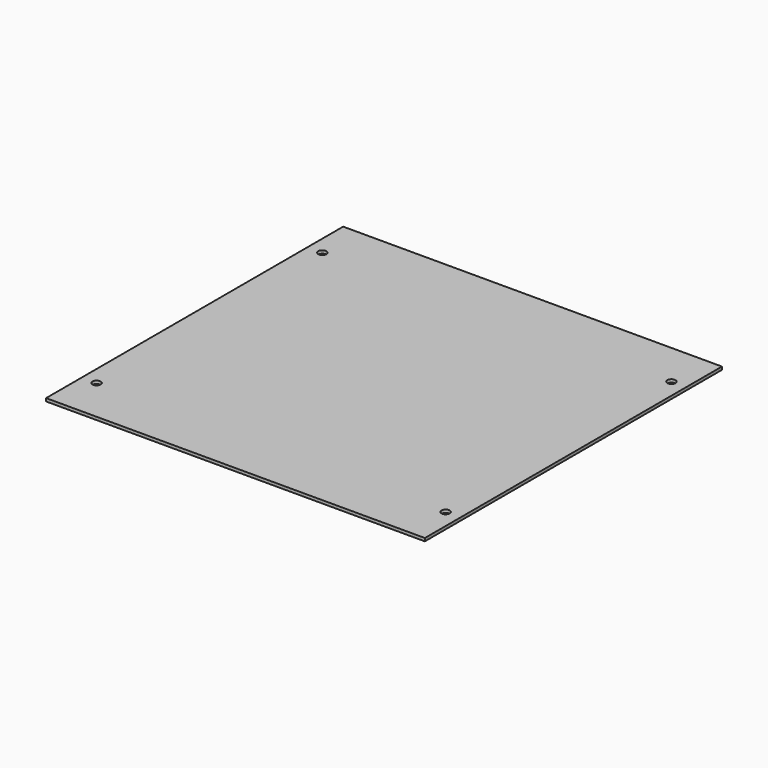
from build123d import *

# Parameters (mm, degrees)
CYLINDER007_R     = 2.75
CYLINDER007_DEPTH = 10
CYLINDER006_R     = 2.75
CYLINDER006_DEPTH = 10
CYLINDER005_R     = 2.75
CYLINDER005_DEPTH = 10
CYLINDER004_R     = 2.75
CYLINDER004_DEPTH = 10
BOX001_W          = 255
BOX001_H          = 250
BOX001_DEPTH      = 2


with BuildPart() as cylinder007:
    # Cylinder007 → Cylinder007 (new body)
    with BuildSketch(Plane(origin=(245, 220, -5), x_dir=(1, 0, 0), z_dir=(0, 0, 1))):
        Circle(CYLINDER007_R)
    extrude(amount=CYLINDER007_DEPTH)


with BuildPart() as cylinder006:
    # Cylinder006 → Cylinder006 (new body)
    with BuildSketch(Plane(origin=(245, 30, -5), x_dir=(1, 0, 0), z_dir=(0, 0, 1))):
        Circle(CYLINDER006_R)
    extrude(amount=CYLINDER006_DEPTH)


with BuildPart() as cylinder005:
    # Cylinder005 → Cylinder005 (new body)
    with BuildSketch(Plane(origin=(10, 220, -5), x_dir=(1, 0, 0), z_dir=(0, 0, 1))):
        Circle(CYLINDER005_R)
    extrude(amount=CYLINDER005_DEPTH)


with BuildPart() as cylinder004:
    # Cylinder004 → Cylinder004 (new body)
    with BuildSketch(Plane(origin=(10, 30, -5), x_dir=(1, 0, 0), z_dir=(0, 0, 1))):
        Circle(CYLINDER004_R)
    extrude(amount=CYLINDER004_DEPTH)


with BuildPart() as side:
    # Box001 → Box001 (new body)
    with BuildSketch(Plane.XY.offset(0)):
        with Locations((127.5, 125)):
            Rectangle(BOX001_W, BOX001_H)
    extrude(amount=BOX001_DEPTH)

    # Cut004: cut Cylinder004
    add(cylinder004.part, mode=Mode.SUBTRACT)

    # Cut005: cut Cylinder005
    add(cylinder005.part, mode=Mode.SUBTRACT)

    # Cut006: cut Cylinder006
    add(cylinder006.part, mode=Mode.SUBTRACT)

    # Cut007: cut Cylinder007
    add(cylinder007.part, mode=Mode.SUBTRACT)


with BuildPart() as side_1:
    # Cut007 placement: moved
    add(side.part.moved(Location((103.476654, -144.038025, 187.740341))))


solid = side_1.part
